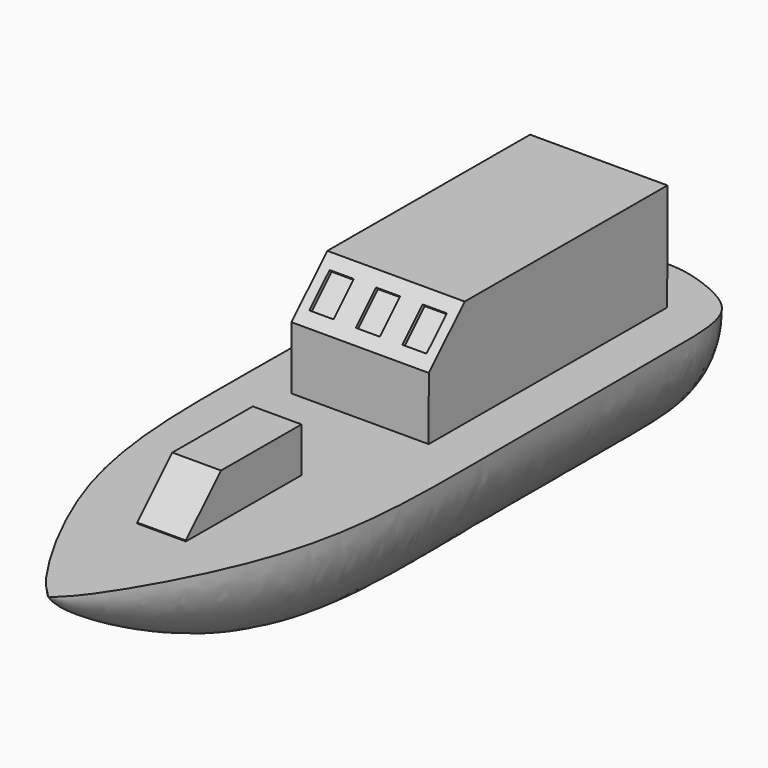
from build123d import *

# Parameters (mm, degrees)
F1_ANGLE_BACK = 90
F1_ANGLE      = 180
F2_W          = 19.5003319532
F2_H          = 42.3330869526
F3_DEPTH      = 15.24
F2_W_2        = 6.9107273594
F2_H_2        = 20.5113845763
F4_DEPTH      = 6.35
F5_SIZE       = 6.35
F6_SIZE       = 6.223
F7_W          = 3.429
F7_H          = 5.08
F8_DEPTH      = 0.508


with BuildPart() as f1:
    # F0 (on Right) → F1 (revolve)
    with BuildSketch(Plane.YZ, mode=Mode.PRIVATE) as f1_sk:
        with BuildLine():
            Line((34.9214076996, 10.6095829979), (-70.8683729172, 10.9261889011))
            add(Edge.make_bspline(
                [(-70.8683729172, 10.9261889011), (-70.1419854561, 10.2578587346), (-68.0454930222, 7.6017228607), (-46.8309506702, -4.8443860401), (-23.6054190841, -6.038263541), (-7.9588431838, -5.7330571075), (19.1368285034, -5.8978473622), (28.0721145699, -5.7025676976), (32.1389431313, -2.954042184), (34.975613757, 4.252374343), (35.0640308282, 6.9227486413), (34.9214076996, 10.6095829979)],
                knots=[0, 0, 0, 0, 0.0622616351, 0.2180374171, 0.3738682141, 0.5047076416, 0.6710416497, 0.7649499794, 0.8315827282, 0.9148966955, 1, 1, 1, 1], degree=3))
        make_face()
    revolve(f1_sk.sketch.rotate(Axis((0, -17.9734826088, 10.7678859495), (0, -0.9999955217, 0.00299277)), -F1_ANGLE_BACK), axis=Axis((0, -17.9734826088, 10.7678859495), (0, -0.9999955217, 0.00299277)), revolution_arc=F1_ANGLE)

    # F2 (on face) → F3 (join)
    with BuildSketch(Plane(origin=(0, 0.0320646795, 10.7139992458), x_dir=(1, 0, 0), z_dir=(0, 0.00299277, 0.9999955217))):
        with Locations((0, 5.5756000802)):
            Rectangle(F2_W, F2_H)
    extrude(amount=F3_DEPTH)

    # F2 (on face) → F4 (join)
    with BuildSketch(Plane(origin=(0, 0.0320646795, 10.7139992458), x_dir=(1, 0, 0), z_dir=(0, 0.00299277, 0.9999955217))):
        with Locations((0, -40.5601523817)):
            Rectangle(F2_W_2, F2_H_2)
    extrude(amount=F4_DEPTH)

    # F5
    f5_edges = [f1.edges().sort_by_distance(p)[0] for p in [
        (0, -15.513199, 26.000591),
    ]]
    chamfer(f5_edges, length=F5_SIZE)

    # F6
    f6_edges = [f1.edges().sort_by_distance(p)[0] for p in [
        (0, -50.764548, 17.216051),
    ]]
    chamfer(f6_edges, length=F6_SIZE)

    # F7 (on face) → F8 (cut)
    with BuildSketch(Plane(origin=(0, -17.5447512472, 17.6500817605), x_dir=(1, 0, 0), z_dir=(0, -0.7049874065, 0.7092198225))):
        with Locations((0, 7.2997931698)):
            Rectangle(F7_W, F7_H)
        with Locations((6.604, 7.327820993)):
            Rectangle(F7_W, F7_H)
        with Locations((-6.604, 7.327820993)):
            Rectangle(F7_W, F7_H)
    extrude(amount=-F8_DEPTH, mode=Mode.SUBTRACT)


solid = f1.part
